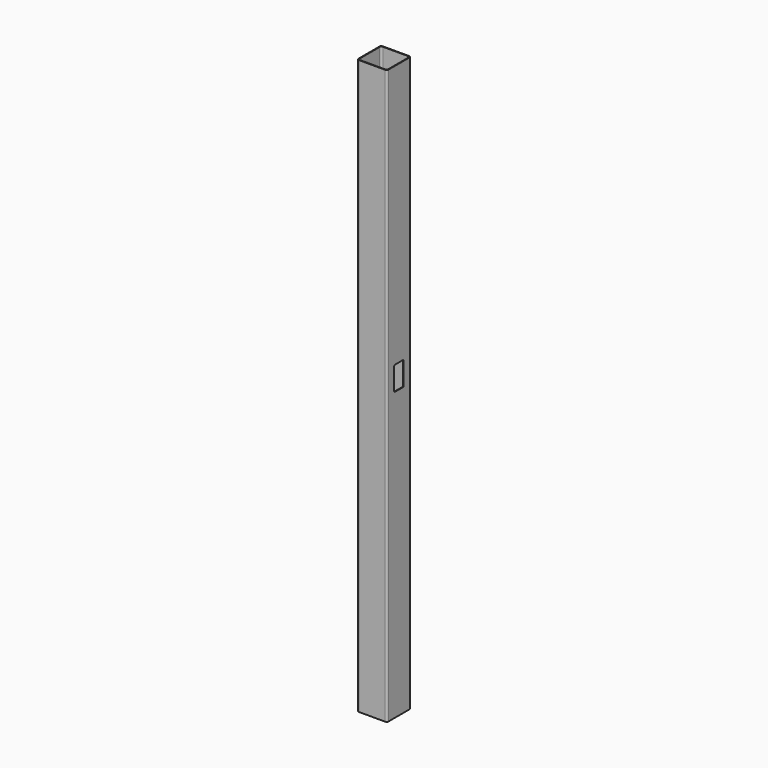
from build123d import *

# Parameters (mm, degrees)
F1_DEPTH = 1219.2
F3_DEPTH = 1.27
F5_DEPTH = 1.27


with BuildPart() as f1:
    # F0 (on Top) → F1 (new body)
    with BuildSketch(Plane.XY):
        with BuildLine():
            ThreePointArc((31.75, 27.94), (30.634077, 30.634077), (27.94, 31.75))
            Line((27.94, 31.75), (-27.94, 31.75))
            ThreePointArc((-27.94, 31.75), (-30.634077, 30.634077), (-31.75, 27.94))
            Line((-31.75, 27.94), (-31.75, -27.94))
            ThreePointArc((-31.75, -27.94), (-30.634077, -30.634077), (-27.94, -31.75))
            Line((-27.94, -31.75), (27.94, -31.75))
            ThreePointArc((27.94, -31.75), (30.634077, -30.634077), (31.75, -27.94))
            Line((31.75, -27.94), (31.75, 27.94))
        make_face()
        with BuildLine():
            Line((-26.67, 30.48), (26.67, 30.48))
            ThreePointArc((26.67, 30.48), (29.364077, 29.364077), (30.48, 26.67))
            Line((30.48, 26.67), (30.48, -26.67))
            ThreePointArc((30.48, -26.67), (29.364077, -29.364077), (26.67, -30.48))
            Line((26.67, -30.48), (-26.67, -30.48))
            ThreePointArc((-26.67, -30.48), (-29.364077, -29.364077), (-30.48, -26.67))
            Line((-30.48, -26.67), (-30.48, 26.67))
            ThreePointArc((-30.48, 26.67), (-29.364077, 29.364077), (-26.67, 30.48))
        make_face(mode=Mode.SUBTRACT)
    extrude(amount=F1_DEPTH)

    # F2 (on face) → F3 (cut, through all)
    with BuildSketch(Plane(origin=(0, 31.75, 0), x_dir=(-1, 0, 0), z_dir=(0, 1, 0))):
        with BuildLine():
            ThreePointArc((19.05, 1168.4), (0, 1187.45), (-19.05, 1168.4))
            Line((-19.05, 1168.4), (-19.05, 762))
            ThreePointArc((-19.05, 762), (0, 742.95), (19.05, 762))
            Line((19.05, 762), (19.05, 1168.4))
        make_face()
    extrude(amount=-F3_DEPTH, mode=Mode.SUBTRACT)

    # F4 (on face) → F5 (cut, through all)
    with BuildSketch(Plane.YZ.offset(31.75)):
        with BuildLine():
            ThreePointArc((12.7, 657.86), (11.956051, 659.656051), (10.16, 660.4))
            Line((10.16, 660.4), (-10.16, 660.4))
            ThreePointArc((-10.16, 660.4), (-11.956051, 659.656051), (-12.7, 657.86))
            Line((-12.7, 657.86), (-12.7, 612.14))
            ThreePointArc((-12.7, 612.14), (-11.956051, 610.343949), (-10.16, 609.6))
            Line((-10.16, 609.6), (10.16, 609.6))
            ThreePointArc((10.16, 609.6), (11.956051, 610.343949), (12.7, 612.14))
            Line((12.7, 612.14), (12.7, 657.86))
        make_face()
    extrude(amount=-F5_DEPTH, mode=Mode.SUBTRACT)


solid = f1.part
